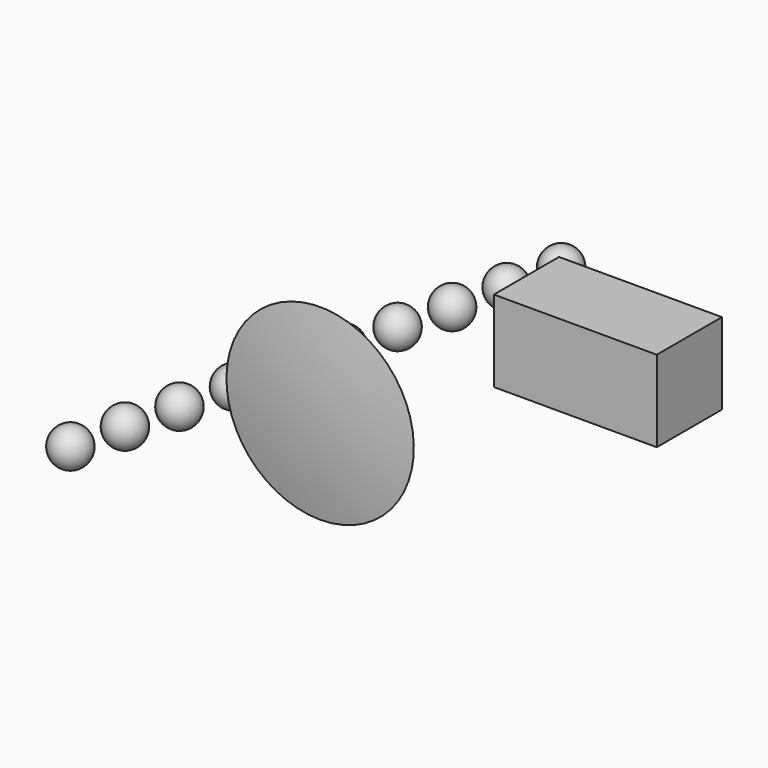
from build123d import *

# Parameters (mm, degrees)
BOX_W                 = 3
BOX_H                 = 1.5
BOX_DEPTH             = 1.5
ARRAY_Y_COUNT         = 10
ARRAY_Y_PITCH         = 1
ARRAY_PLACEMENT_ANGLE = 347


with BuildPart() as sphere001:
    # Sphere001 → Sphere001 (revolve)
    with BuildSketch(Plane.XZ.offset(9.85)):
        with BuildLine():
            ThreePointArc((0, -10), (10, 0), (0, 10))
            Line((0, 10), (0, -10))
        make_face()
    revolve(axis=Axis((0, -9.85, 0), (0, 0, 1)))


with BuildPart() as lens:
    # Sphere → Sphere (revolve)
    with BuildSketch(Plane.XZ.offset(-9.85)):
        with BuildLine():
            ThreePointArc((0, -10), (10, 0), (0, 10))
            Line((0, 10), (0, -10))
        make_face()
    revolve(axis=Axis((0, 9.85, 0), (0, 0, 1)))

    # Common: intersect Sphere001
    add(sphere001.part, mode=Mode.INTERSECT)


with BuildPart() as lens_1:
    # Common placement: moved
    add(lens.part.moved(Location((0, 0, 1.2))))


with BuildPart() as cube:
    # Box → Box (new body)
    with BuildSketch(Plane(origin=(0, 4, 0), x_dir=(1, 0, 0), z_dir=(0, 0, 1))):
        with Locations((1.5, 0.75)):
            Rectangle(BOX_W, BOX_H)
    extrude(amount=BOX_DEPTH)


with BuildPart() as spheres:
    # Sphere002 → Sphere002 (revolve)
    with BuildSketch(Plane.XZ):
        with BuildLine():
            ThreePointArc((0, -0.35), (0.35, 0), (0, 0.35))
            Line((0, 0.35), (0, -0.35))
        make_face()
    revolve(axis=Axis((0, 0, 0), (0, 0, 1)))

    # Array Y: Spheres ×10


with BuildPart() as spheres_1:
    add(spheres.part)
    with Locations(*[(0, i * ARRAY_Y_PITCH, 0) for i in range(1, ARRAY_Y_COUNT)]):
        add(spheres.part)


with BuildPart() as spheres_2:
    # Array placement: moved
    add(spheres_1.part.moved(Location((-3, -2, 0.5))).rotate(Axis((-3, -2, 0.5), (0, 0, 1)), ARRAY_PLACEMENT_ANGLE))


solid = Compound([lens_1.part, cube.part, spheres_2.part])
